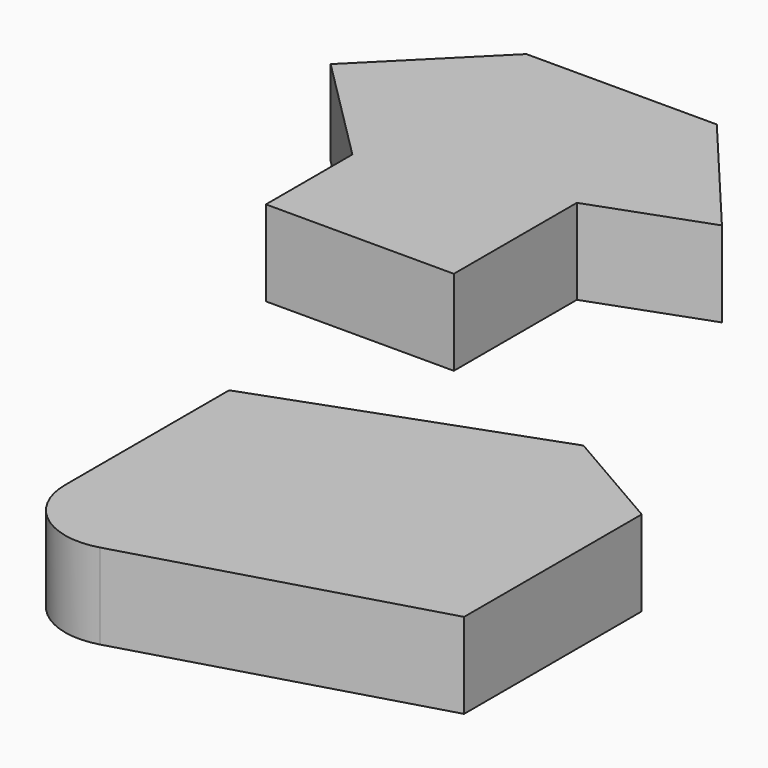
from build123d import *

# Parameters (mm, degrees)
F1_DEPTH = 25


with BuildPart() as f1:
    # F0 (on Top) → F1 (new body)
    with BuildSketch(Plane.XY):
        Polygon((-33.397159, 79.497892), (-33.397159, 47.864575), (21.602841, 47.864575), (21.602841, 92.864575), (54.492082, 104.83528), (22.352702, 143.137502), (-33.397159, 143.137502), (-65.216965, 111.317697), align=None)
        with BuildLine():
            Line((129.51467, -83.286654), (129.51467, -18.286654))
            Line((129.51467, -18.286654), (97.841255, 0))
            Line((97.841255, 0), (17.511487, -29.237645))
            Line((17.511487, -29.237645), (17.511487, -89.237645))
            ThreePointArc((17.511487, -89.237645), (25.507225, -105.234448), (43.101258, -108.440625))
            Line((43.101258, -108.440625), (129.51467, -83.286654))
        make_face()
    extrude(amount=F1_DEPTH)


solid = f1.part
